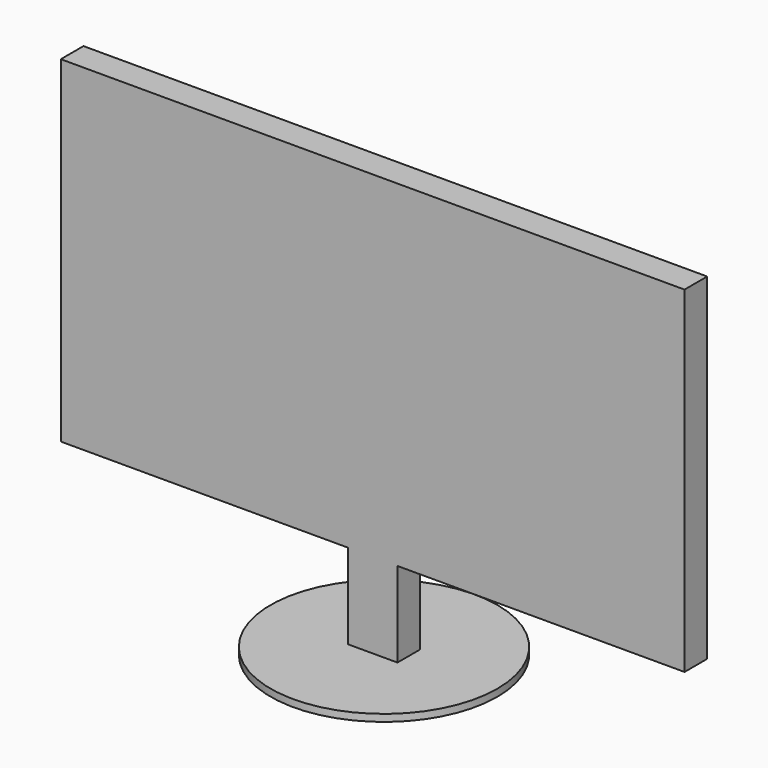
from build123d import *

# Parameters (mm, degrees)
F0_W     = 44.45
F0_H     = 76.2
F1_DEPTH = 12.7
F2_R     = 101.6
F3_DEPTH = 6.35


with BuildPart() as f1:
    # F0 (on Front) → F1 (new body, symmetric)
    with BuildSketch(Plane.XZ):
        Polygon((279.4, -150.804145), (279.4, 150.804145), (-279.4, 150.804145), align=None)
        Polygon((279.4, -150.804145), (-279.4, 150.804145), (-279.4, -150.804145), (-22.225, -150.804145), (22.225, -150.804145), align=None)
        with Locations((0, -188.904145)):
            Rectangle(F0_W, F0_H)
    extrude(amount=F1_DEPTH, both=True)

    # F2 (on face) → F3 (join)
    with BuildSketch(Plane(origin=(0, 0, -227.004145), x_dir=(1, 0, 0), z_dir=(0, 0, -1))):
        Circle(F2_R)
    extrude(amount=F3_DEPTH)


solid = f1.part
